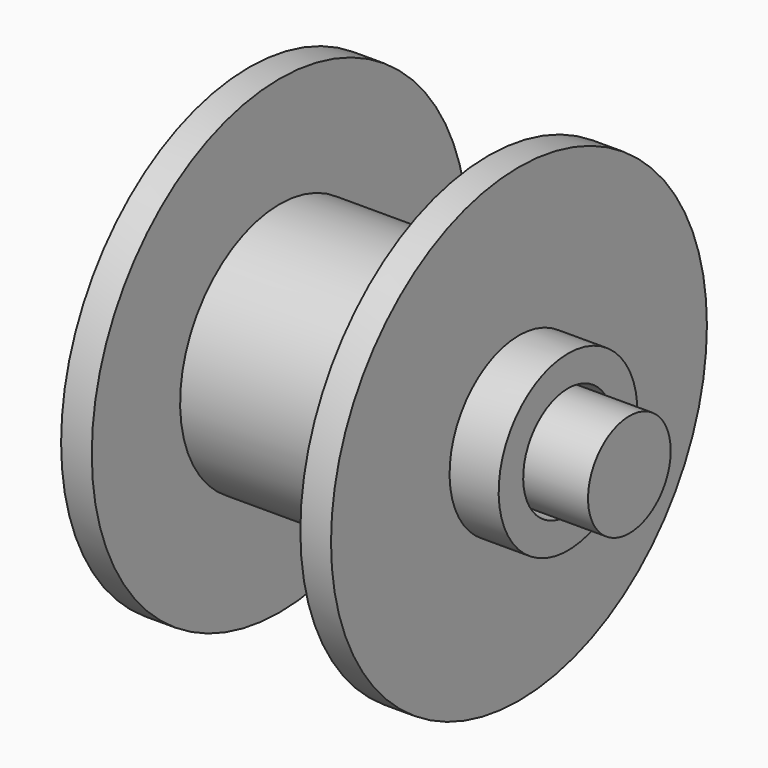
from build123d import *

# Parameters (mm, degrees)
F0_R     = 8.4222380833
F1_DEPTH = 40
F2_W     = 5
F2_H     = 18


with BuildPart() as f1:
    # F0 (on Right) → F1 (new body, symmetric)
    with BuildSketch(Plane.YZ):
        Circle(F0_R)
    extrude(amount=F1_DEPTH, both=True)


with BuildPart() as f3:
    # F2 (on Front) → F3 (revolve)
    with BuildSketch(Plane.XZ):
        Polygon((-30, 14.1370562464), (-30, 9.1370562464), (30, 9.1370562464), (30, 14.1370562464), (22, 14.1370562464), (-22, 14.1370562464), align=None)
        Polygon((-22, 20.2982239425), (-22, 14.1370562464), (22, 14.1370562464), (22, 20.2982239425), (17, 20.2982239425), (-17, 20.2982239425), align=None)
        with Locations((-19.5, 29.2982239425)):
            Rectangle(F2_W, F2_H)
        with Locations((19.5, 29.2982239425)):
            Rectangle(F2_W, F2_H)
    revolve(axis=Axis((0, 0, 0), (1, 0, 0)))


solid = Compound([f1.part, f3.part])
